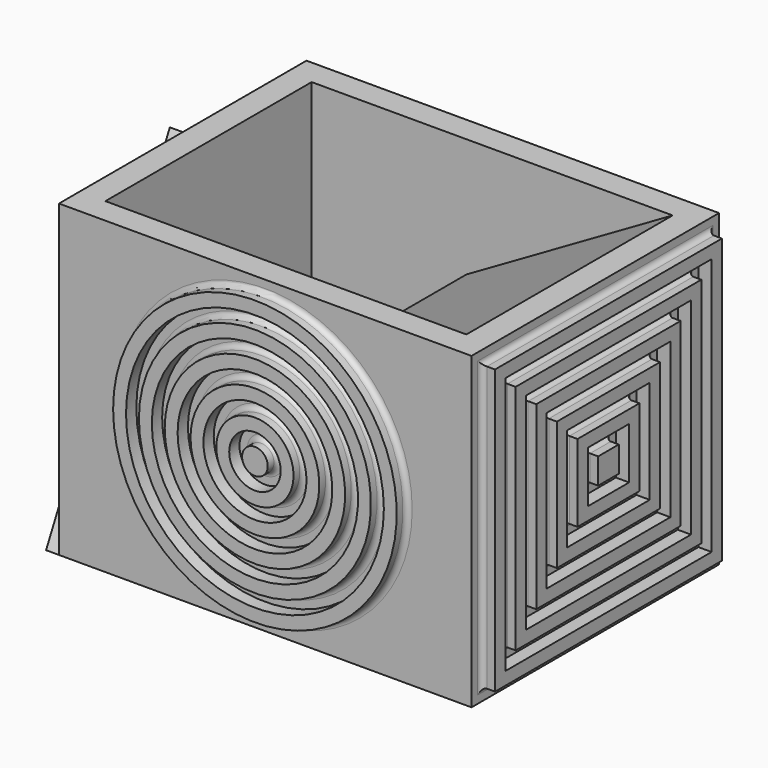
from build123d import *

# Parameters (mm, degrees)
F1_DEPTH  = 38.1
F2_W      = 101.6
F2_H      = 76.2
F3_DEPTH  = 6.35
F4_W      = 101.6
F4_H      = 76.2
F5_DEPTH  = 6.35
F6_W      = 69.85
F6_H      = 69.85
F6_W_2    = 63.5
F6_H_2    = 63.5
F6_W_3    = 57.15
F6_H_3    = 57.15
F6_W_4    = 50.8
F6_H_4    = 50.8
F6_W_5    = 44.45
F6_H_5    = 44.45
F6_W_6    = 38.1
F6_H_6    = 38.1
F6_W_7    = 31.75
F6_H_7    = 31.75
F6_W_8    = 25.4
F6_H_8    = 25.4
F6_W_9    = 19.05
F6_H_9    = 19.05
F6_W_10   = 12.7
F6_H_10   = 12.7
F6_W_11   = 6.35
F6_H_11   = 6.35
F7_DEPTH  = 3.2512
F8_R      = 34.925
F8_R_2    = 31.75
F8_R_3    = 28.575
F8_R_4    = 25.39238
F8_R_5    = 22.21738
F8_R_6    = 19.04238
F8_R_7    = 15.85976
F8_R_8    = 12.68476
F8_R_9    = 9.50976
F8_R_10   = 6.33476
F8_R_11   = 3.15976
F9_DEPTH  = 3.175
F10_R     = 1.27
F11_R     = 1.27
F14_DEPTH = 3.175


with BuildPart() as f1:
    # F0 (on Front) → F1 (new body, symmetric)
    with BuildSketch(Plane.XZ):
        Polygon((44.45, -20.558787), (44.45, 38.1), (-6.35, 8.770606), align=None)
        Polygon((50.8, -38.1), (50.8, 38.1), (44.45, 38.1), (44.45, -20.558787), (44.45, -38.1), align=None)
        Polygon((-44.45, -38.1), (2.157387, -38.1), (6.35, -35.679394), (-44.45, -6.35), align=None)
        Polygon((-44.45, -6.35), (-44.45, 38.1), (-50.8, 38.1), (-50.8, -38.1), (-44.45, -38.1), align=None)
    extrude(amount=F1_DEPTH, both=True)

    # F2 (on face) → F3 (join)
    with BuildSketch(Plane.XZ.offset(38.1)):
        Rectangle(F2_W, F2_H)
    extrude(amount=-F3_DEPTH)

    # F4 (on face) → F5 (join)
    with BuildSketch(Plane(origin=(0, 38.1, 0), x_dir=(-1, 0, 0), z_dir=(0, 1, 0))):
        Rectangle(F4_W, F4_H)
    extrude(amount=-F5_DEPTH)

    # F6 (on face) → F7 (join)
    with BuildSketch(Plane.YZ.offset(50.8)):
        Rectangle(F6_W, F6_H)
        Rectangle(F6_W_2, F6_H_2, mode=Mode.SUBTRACT)
        Rectangle(F6_W_3, F6_H_3)
        Rectangle(F6_W_4, F6_H_4, mode=Mode.SUBTRACT)
        Rectangle(F6_W_5, F6_H_5)
        Rectangle(F6_W_6, F6_H_6, mode=Mode.SUBTRACT)
        Rectangle(F6_W_7, F6_H_7)
        Rectangle(F6_W_8, F6_H_8, mode=Mode.SUBTRACT)
        Rectangle(F6_W_9, F6_H_9)
        Rectangle(F6_W_10, F6_H_10, mode=Mode.SUBTRACT)
        Rectangle(F6_W_11, F6_H_11)
    extrude(amount=F7_DEPTH)

    # F8 (on face) → F9 (join)
    with BuildSketch(Plane(origin=(0, 38.1, 0), x_dir=(-1, 0, 0), z_dir=(0, 1, 0))):
        Circle(F8_R)
        Circle(F8_R_2, mode=Mode.SUBTRACT)
        Circle(F8_R_3)
        Circle(F8_R_4, mode=Mode.SUBTRACT)
        Circle(F8_R_5)
        Circle(F8_R_6, mode=Mode.SUBTRACT)
        Circle(F8_R_7)
        Circle(F8_R_8, mode=Mode.SUBTRACT)
        Circle(F8_R_9)
        Circle(F8_R_10, mode=Mode.SUBTRACT)
        Circle(F8_R_11)
    extrude(amount=F9_DEPTH)

    # F10
    f10_edges = [f1.edges().sort_by_distance(p)[0] for p in [
        (50.8, -34.925, 0),
        (50.8, 0, 34.925),
        (50.8, 34.925, 0),
        (50.8, 0, -34.925),
        (50.8, 28.575, 0),
        (50.8, 0, 28.575),
        (50.8, -28.575, 0),
        (50.8, 0, -28.575),
        (50.8, 0, -22.225),
        (50.8, -22.225, 0),
        (50.8, 22.225, 0),
        (50.8, 0, 22.225),
        (50.8, 0, 15.875),
        (50.8, 15.875, 0),
        (50.8, 0, 9.525),
        (50.8, 9.525, 0),
        (50.8, 0, 3.175),
        (50.8, 3.175, 0),
        (50.8, -3.175, 0),
        (50.8, 0, -3.175),
        (50.8, -9.525, 0),
        (50.8, 0, -9.525),
        (50.8, -15.875, 0),
        (50.8, 0, -15.875),
    ]]
    fillet(f10_edges, radius=F10_R)

    # F11
    f11_edges = [f1.edges().sort_by_distance(p)[0] for p in [
        (34.925, 38.1, 0),
        (28.575, 38.1, 0),
        (22.21738, 38.1, 0),
        (15.85976, 38.1, 0),
        (9.50976, 38.1, 0),
        (3.15976, 38.1, 0),
    ]]
    fillet(f11_edges, radius=F11_R)

    # F12: F1 across plane


with BuildPart() as f1_1:
    add(f1.part)
    add(f1.part.mirror(Plane.XZ))

    # F13 (on face) → F14 (join)
    with BuildSketch(Plane(origin=(-50.8, 0, 0), x_dir=(0, -1, 0), z_dir=(-1, 0, 0))):
        Polygon((-38.1, -38.1), (38.1, -38.1), (0, 38.1), align=None)
        Polygon((33.990194, -35.56), (-33.990194, -35.56), (0, 32.420387), align=None, mode=Mode.SUBTRACT)
        Polygon((0, 26.740775), (-29.880387, -33.02), (29.880387, -33.02), align=None)
        Polygon((25.770581, -30.48), (-25.770581, -30.48), (0, 21.061162), align=None, mode=Mode.SUBTRACT)
        Polygon((0, 15.381549), (-21.660775, -27.94), (21.660775, -27.94), align=None)
        Polygon((17.550968, -25.4), (-17.550968, -25.4), (0, 9.701937), align=None, mode=Mode.SUBTRACT)
        Polygon((0, 4.022324), (-13.441162, -22.86), (13.441162, -22.86), align=None)
        Polygon((9.331356, -20.32), (-9.331356, -20.32), (0, -1.657289), align=None, mode=Mode.SUBTRACT)
        Polygon((5.221549, -17.78), (0, -7.336901), (-5.221549, -17.78), align=None)
        Polygon((1.111743, -15.24), (-1.111743, -15.24), (0, -13.016514), align=None, mode=Mode.SUBTRACT)
    extrude(amount=F14_DEPTH)


solid = f1_1.part
